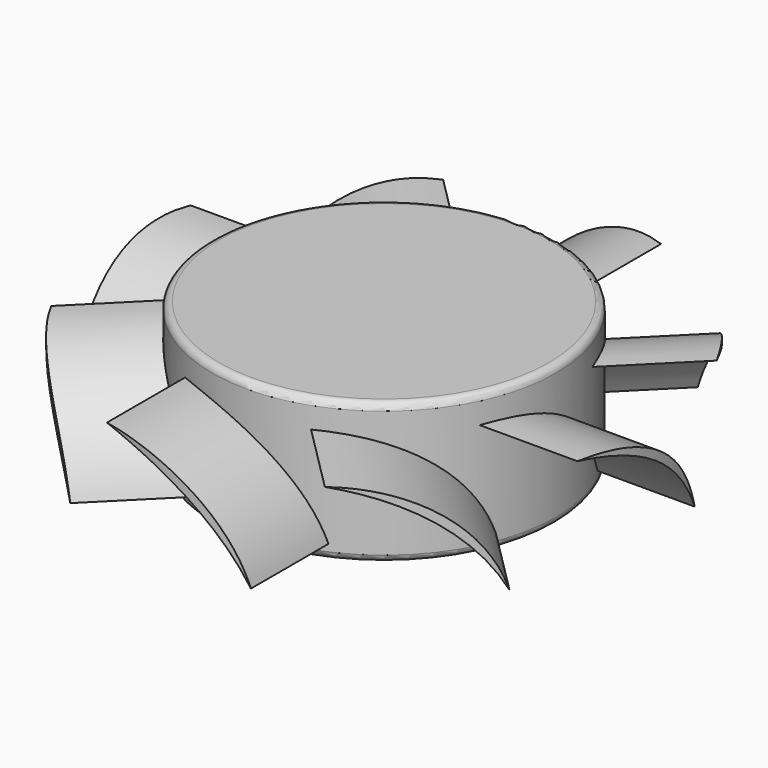
from build123d import *

# Parameters (mm, degrees)
SKETCH064_R           = 12.25
PAD026_DEPTH          = 10
FILLET029_R           = 0.5
PAD028_DEPTH          = 7.5
SKETCH070_R           = 32.89
SKETCH070_R_2         = 18.75
POCKET019_DEPTH       = 94.210561
POLARPATTERN007_COUNT = 8


with BuildPart() as part:
    # Sketch064 → Pad026 (new body)
    with BuildSketch(Plane.XY):
        Circle(SKETCH064_R)
    extrude(amount=PAD026_DEPTH)

    # Fillet029
    fillet029_edges = [part.edges().sort_by_distance(p)[0] for p in [
        (-12.25, 0, 10),
        (-12.25, 0, 0),
    ]]
    fillet(fillet029_edges, radius=FILLET029_R)

    # Sketch078 (on DatumPlane) → Pad028 (join, symmetric)
    with BuildSketch(Plane(origin=(0, 13, -2), x_dir=(1, 0, 0), z_dir=(0, -1, 0))):
        with BuildLine():
            ThreePointArc((5.3, 10), (-1.072659, 8.299055), (-5, 3))
            ThreePointArc((5.3, 10), (-0.742753, 7.813623), (-5, 3))
        make_face()
    pad028 = extrude(amount=PAD028_DEPTH, both=True)

    # Sketch070 (on Face7 of Pad028) → Pocket019 (cut, through all)
    with BuildSketch(Plane.XY.offset(10)):
        Circle(SKETCH070_R)
        Circle(SKETCH070_R_2, mode=Mode.SUBTRACT)
    pocket019 = extrude(amount=-POCKET019_DEPTH, mode=Mode.SUBTRACT)

    # PolarPattern007: Pad028, Pocket019 ×8 about axis
    polarpattern007_axis = Axis((0, 0, 0), (0, 0, 1))
    for i in range(1, POLARPATTERN007_COUNT):
        add(pad028.rotate(polarpattern007_axis, i * 360 / POLARPATTERN007_COUNT))
        add(pocket019.rotate(polarpattern007_axis, i * 360 / POLARPATTERN007_COUNT), mode=Mode.SUBTRACT)


solid = part.part
